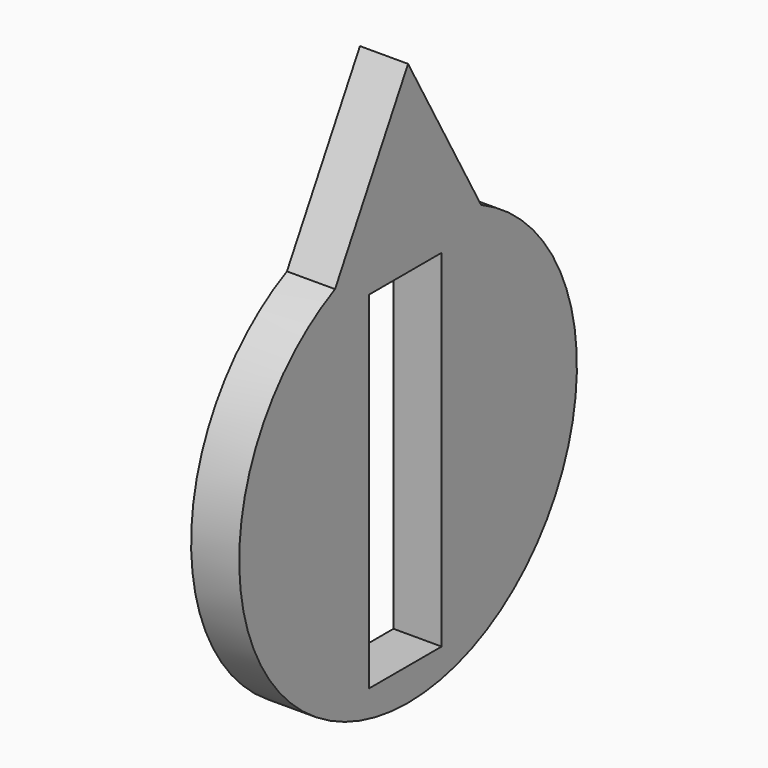
from build123d import *

# Parameters (mm, degrees)
F1_DEPTH = 4.3434


with BuildPart() as f1:
    # F0 (on Right) → F1 (new body)
    with BuildSketch(Plane.YZ):
        with BuildLine():
            Line((-26.6413724846, 16.9059385684), (-34.878979916, 31.4588434994))
            Line((-34.878979916, 31.4588434994), (-43.1165873473, 16.9059385684))
            ThreePointArc((-43.1165873473, 16.9059385684), (-34.878979916, -19.3209157364), (-26.6413724846, 16.9059385684))
        make_face()
        Polygon((-39.2719586242, -16.3847599084), (-39.2719586242, 14.9080400916), (-34.878979916, 14.9080400916), (-31.0931586242, 14.9080400916), (-31.0931586242, -16.3847599084), align=None, mode=Mode.SUBTRACT)
    extrude(amount=F1_DEPTH)


solid = f1.part
